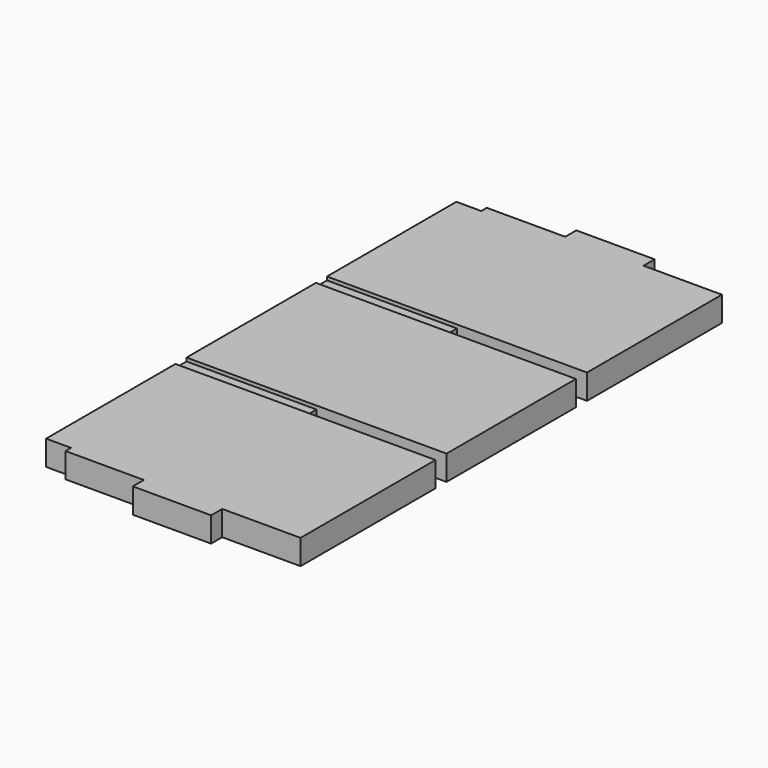
from build123d import *

# Parameters (mm, degrees)
SKETCH004_W              = 18
SKETCH004_H              = 169.6125627158
PAD003_DEPTH             = 5
SKETCH005_W              = 18
SKETCH005_H              = 56.5375209053
PAD004_DEPTH             = 10
PAD005_DEPTH             = 18
SKETCH007_W              = 93.8062813579
SKETCH007_H              = 10
POCKET_DEPTH             = 2.5
SKETCH008_W              = 93.8062813579
SKETCH008_H              = 10
POCKET001_DEPTH          = 2.5
CLONE024_PITCH_ANGLE     = 90
CLONE024_PLACEMENT_ANGLE = -90


with BuildPart() as part:
    # Sketch004 → Pad003 (new body)
    with BuildSketch(Plane.XY):
        with Locations((0, -97.1937186421)):
            Rectangle(SKETCH004_W, SKETCH004_H)
    extrude(amount=PAD003_DEPTH)

    # Sketch005 (on Face5 of Pad003) → Pad004 (join)
    with BuildSketch(Plane(origin=(0, 0, 0), x_dir=(1, 0, 0), z_dir=(0, 0, -1))):
        with Locations((0, 97.1937186421)):
            Rectangle(SKETCH005_W, SKETCH005_H)
    extrude(amount=PAD004_DEPTH)

    # Sketch006 (on Face9 of Pad004) → Pad005 (join)
    with BuildSketch(Plane.YZ.offset(9)):
        Polygon((-12.3874372842, 0), (-68.9249581895, 0), (-68.9249581895, -10), (-125.4624790947, -10), (-125.4624790947, 0), (-182, 0), (-182, 5), (-200, 5), (-200, 375), (-182, 375), (-182, 380), (-125.4624790947, 380), (-125.4624790947, 390), (-68.9249581895, 390), (-68.9249581895, 380), (-12.3874372842, 380), (-12.3874372842, 375), (-12.3874372842, 258.3333333333), (-106.1937186421, 258.3333333333), (-106.1937186421, 248.3333333333), (-12.3874372842, 248.3333333333), (-12.3874372842, 131.6666666667), (-106.1937186421, 131.6666666667), (-106.1937186421, 121.6666666667), (-12.3874372842, 121.6666666667), (-12.3874372842, 5), align=None)
    extrude(amount=-PAD005_DEPTH)

    # Sketch007 (on Face11 of Pad005) → Pocket (cut)
    with BuildSketch(Plane.YZ.offset(9)):
        with Locations((-153.0968593211, 253.3333333333)):
            Rectangle(SKETCH007_W, SKETCH007_H)
        with Locations((-153.0968593211, 126.6666666667)):
            Rectangle(SKETCH007_W, SKETCH007_H)
    extrude(amount=-POCKET_DEPTH, mode=Mode.SUBTRACT)

    # Sketch008 (on Face9 of Pocket) → Pocket001 (cut)
    with BuildSketch(Plane(origin=(-9, 0, 0), x_dir=(0, -1, 0), z_dir=(-1, 0, 0))):
        with Locations((153.0968593211, 126.6666666667)):
            Rectangle(SKETCH008_W, SKETCH008_H)
        with Locations((153.0968593211, 253.3333333333)):
            Rectangle(SKETCH008_W, SKETCH008_H)
    extrude(amount=-POCKET001_DEPTH, mode=Mode.SUBTRACT)


with BuildPart() as part_1:
    # Body004 placement: moved
    add(part.part.moved(Location((0, 0, 13))))


with BuildPart() as part_2:
    # Clone024 pitch: moved
    add(part_1.part.rotate(Axis((0, 0, 0), (0, 1, 0)), CLONE024_PITCH_ANGLE))


with BuildPart() as part_3:
    # Clone024 placement: moved
    add(part_2.part.moved(Location((0, 203, 9))).rotate(Axis((0, 203, 9), (0, 0, 1)), CLONE024_PLACEMENT_ANGLE))


solid = part_3.part
